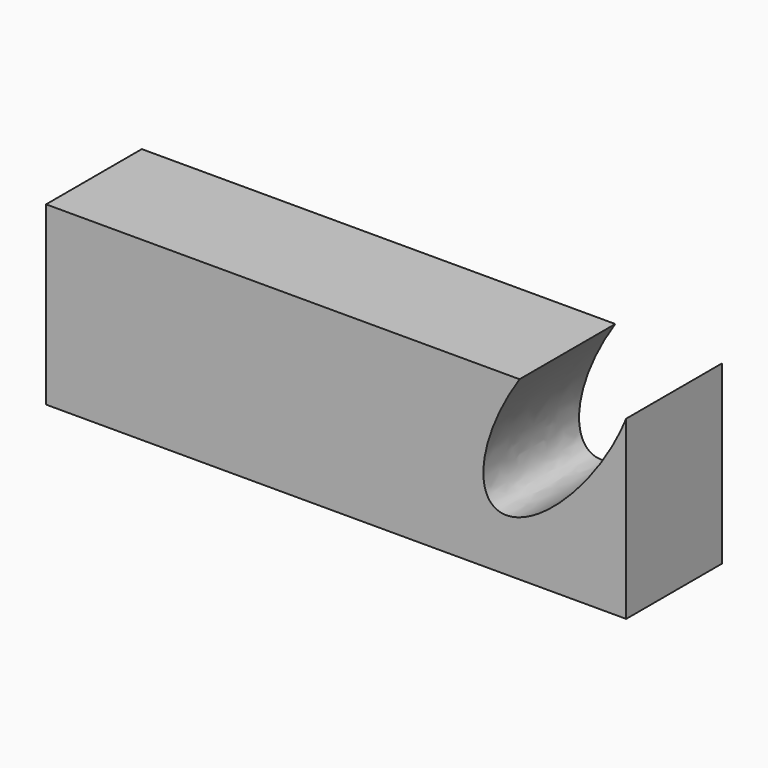
from build123d import *

# Parameters (mm, degrees)
F1_DEPTH = 50


with BuildPart() as f1:
    # F0 (on Front) → F1 (new body)
    with BuildSketch(Plane.XZ):
        with BuildLine():
            Line((121.22169137, -36.8457064033), (121.22169137, 36.8457064033))
            add(Edge.make_bspline(
                [(76.6478792628, 36.8457064033), (42.0259292391, -14.9774156596), (71.1371811475, -14.9774156596), (100.2484330558, -14.9774156596), (121.22169137, 36.8457064033)],
                knots=[1.6014487326, 1.6014487326, 1.6014487326, 3.4088700052, 3.4088700052, 5.2162912777, 5.2162912777, 5.2162912777], degree=2, weights=[1, 0.6186990543, 1, 0.6186990543, 1]))
            Line((76.6478792628, 36.8457064033), (-121.22169137, 36.8457064033))
            Line((-121.22169137, 36.8457064033), (-121.22169137, -36.8457064033))
            Line((-121.22169137, -36.8457064033), (121.22169137, -36.8457064033))
        make_face()
    extrude(amount=F1_DEPTH)


solid = f1.part
